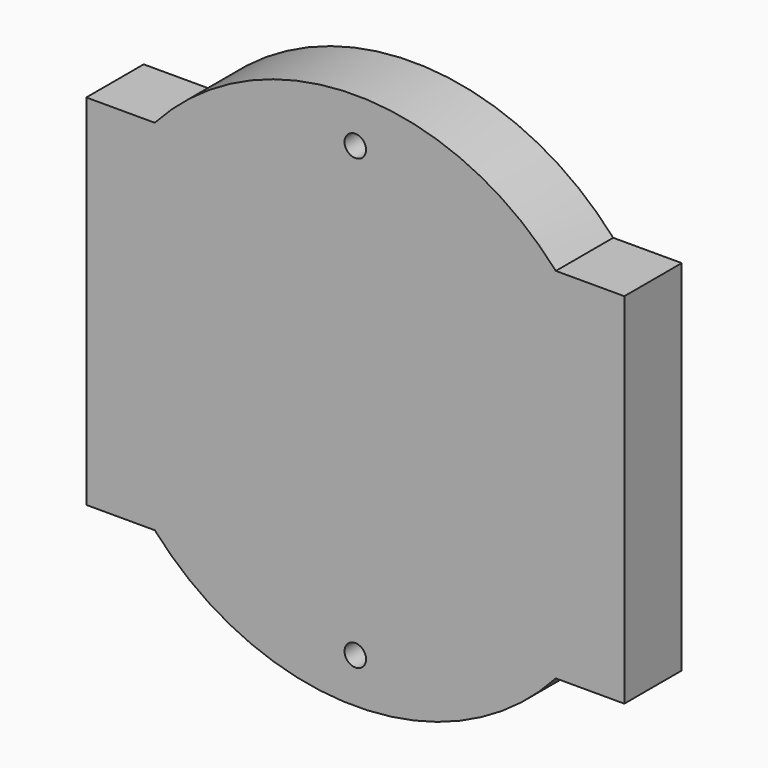
from build123d import *

# Parameters (mm, degrees)
F0_R     = 3
F1_DEPTH = 20


with BuildPart() as f1:
    # F0 (on Front) → F1 (new body)
    with BuildSketch(Plane.XZ):
        with BuildLine():
            Line((-55.901699, 50), (-75, 50))
            Line((-75, 50), (-75, -50))
            Line((-75, -50), (-55.901699, -50))
            ThreePointArc((-55.901699, -50), (0, -75), (55.901699, -50))
            Line((55.901699, -50), (75, -50))
            Line((75, -50), (75, 50))
            Line((75, 50), (55.901699, 50))
            ThreePointArc((55.901699, 50), (0, 75), (-55.901699, 50))
        make_face()
        with Locations((0, -62.5)):
            Circle(F0_R, mode=Mode.SUBTRACT)
        with Locations((0, 62.5)):
            Circle(F0_R, mode=Mode.SUBTRACT)
    extrude(amount=F1_DEPTH)


solid = f1.part
